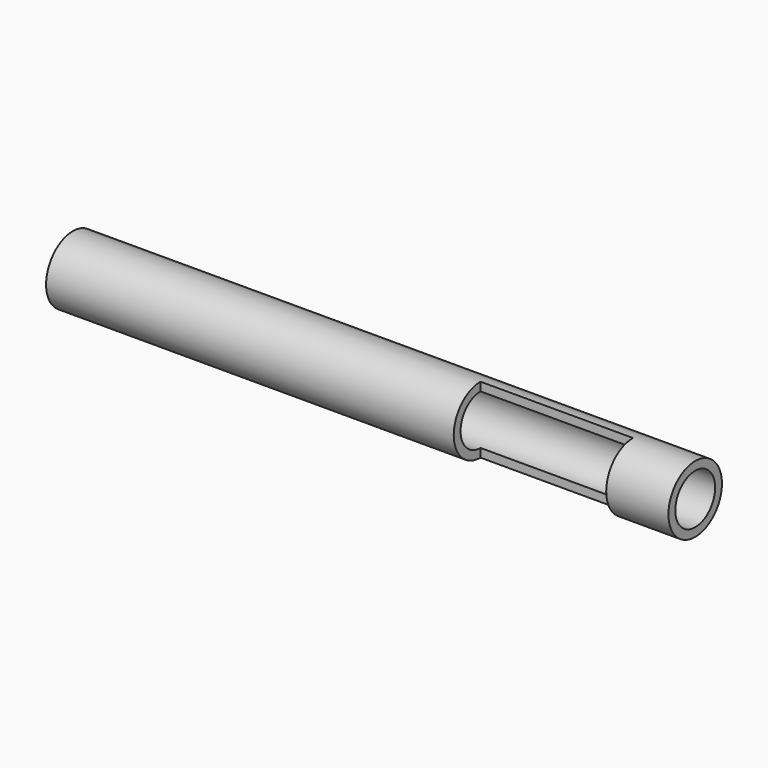
from build123d import *

# Parameters (mm, degrees)
F0_W     = 131
F0_H     = 10.75
F0_W_2   = 49
F0_W_3   = 20
F2_R     = 8
F3_DEPTH = 300
F4_DEPTH = 13


with BuildPart() as f1:
    # F0 (on Top) → F1 (revolve)
    with BuildSketch(Plane.XY):
        with Locations((6.6921378869, -2.8394986279)):
            Rectangle(F0_W, F0_H)
        with Locations((96.6921378869, -2.8394986279)):
            Rectangle(F0_W_2, F0_H)
        with Locations((131.1921378869, -2.8394986279)):
            Rectangle(F0_W_3, F0_H)
    revolve(axis=Axis((41.1921378869, 2.5355013721, 0), (1, 0, 0)))

    # F2 (on face) → F3 (cut)
    with BuildSketch(Plane(origin=(-58.8078621131, 0, 0), x_dir=(0, -1, 0), z_dir=(-1, 0, 0))):
        with Locations((-2.5355013721, 0)):
            Circle(F2_R)
    extrude(amount=-F3_DEPTH, mode=Mode.SUBTRACT)

    # F0 (on Top) → F4 (cut, symmetric)
    with BuildSketch(Plane.XY):
        with Locations((96.6921378869, -2.8394986279)):
            Rectangle(F0_W_2, F0_H)
    extrude(amount=F4_DEPTH, both=True, mode=Mode.SUBTRACT)


solid = f1.part
